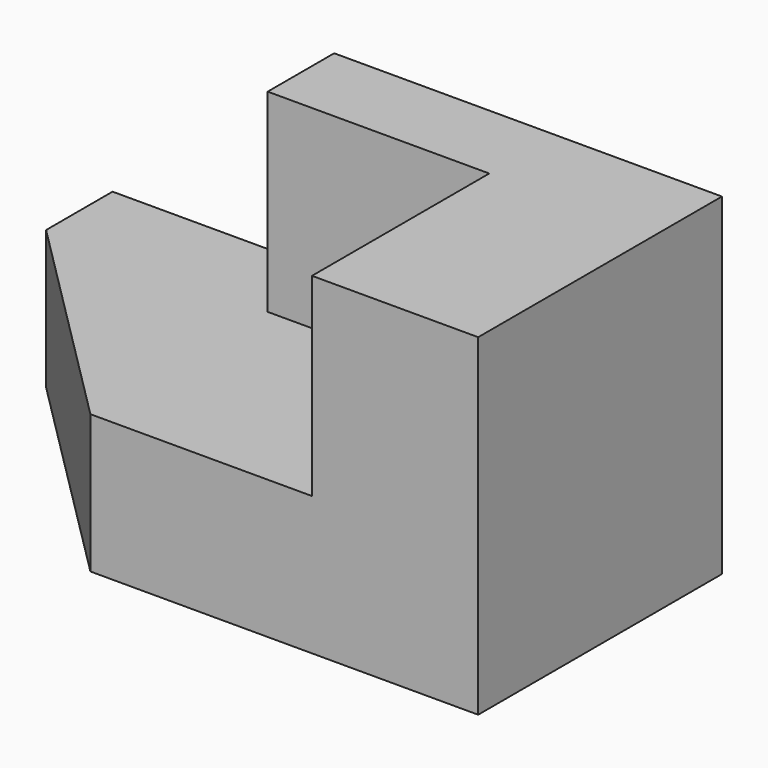
from build123d import *

# Parameters (mm, degrees)
F0_W     = 2794
F0_H     = 635
F1_DEPTH = 1397
F2_W     = 762
F2_H     = 1397
F3_DEPTH = 889
F4_W     = 1016
F4_H     = 381
F5_DEPTH = 889
F7_DEPTH = 2194.56


with BuildPart() as f1:
    # F0 (on Front) → F1 (new body)
    with BuildSketch(Plane.XZ):
        with Locations((1241.852194, 230.339688)):
            Rectangle(F0_W, F0_H)
    extrude(amount=F1_DEPTH)

    # F2 (on face) → F3 (join)
    with BuildSketch(Plane.XY.offset(547.839688)):
        with Locations((2257.852194, -698.5)):
            Rectangle(F2_W, F2_H)
    extrude(amount=F3_DEPTH)

    # F4 (on face) → F5 (join)
    with BuildSketch(Plane.XY.offset(547.839688)):
        with Locations((1368.852194, -190.5)):
            Rectangle(F4_W, F4_H)
    extrude(amount=F5_DEPTH)

    # F6 (on face) → F7 (cut)
    with BuildSketch(Plane.XY.offset(547.839688)):
        Polygon((-155.147806, -1397), (860.852194, -1397), (-155.147806, -381), align=None)
    extrude(amount=-F7_DEPTH, mode=Mode.SUBTRACT)


solid = f1.part
